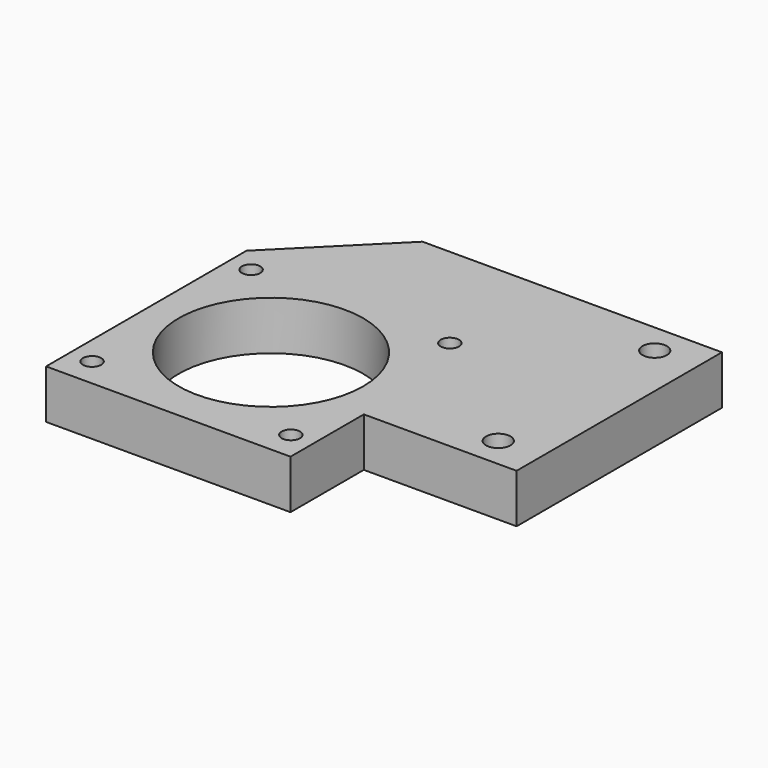
from build123d import *

# Parameters (mm, degrees)
F0_R     = 1.5
F0_R_2   = 15.1
F0_R_3   = 2
F1_DEPTH = 8
F2_SIZE  = 16


with BuildPart() as f1:
    # F0 (on Top) → F1 (new body)
    with BuildSketch(Plane.XY):
        Polygon((32.5, -21), (32.5, 21), (-32.5, 21), (-32.5, -21), (-32.5, -36), (7.5, -36), (7.5, -21), align=None)
        with Locations((-28.763456, -31.263456)):
            Circle(F0_R, mode=Mode.SUBTRACT)
        with Locations((-12.5, -15)):
            Circle(F0_R_2, mode=Mode.SUBTRACT)
        with Locations((3.763456, -31.263456)):
            Circle(F0_R, mode=Mode.SUBTRACT)
        with Locations((25.5, -16)):
            Circle(F0_R_3, mode=Mode.SUBTRACT)
        with Locations((-28.763456, 1.263456)):
            Circle(F0_R, mode=Mode.SUBTRACT)
        with Locations((3.763456, 1.263456)):
            Circle(F0_R, mode=Mode.SUBTRACT)
        with Locations((25.5, 16)):
            Circle(F0_R_3, mode=Mode.SUBTRACT)
    extrude(amount=F1_DEPTH)

    # F2
    f2_edges = [f1.edges().sort_by_distance(p)[0] for p in [
        (-32.5, 21, 4),
    ]]
    chamfer(f2_edges, length=F2_SIZE)


solid = f1.part
